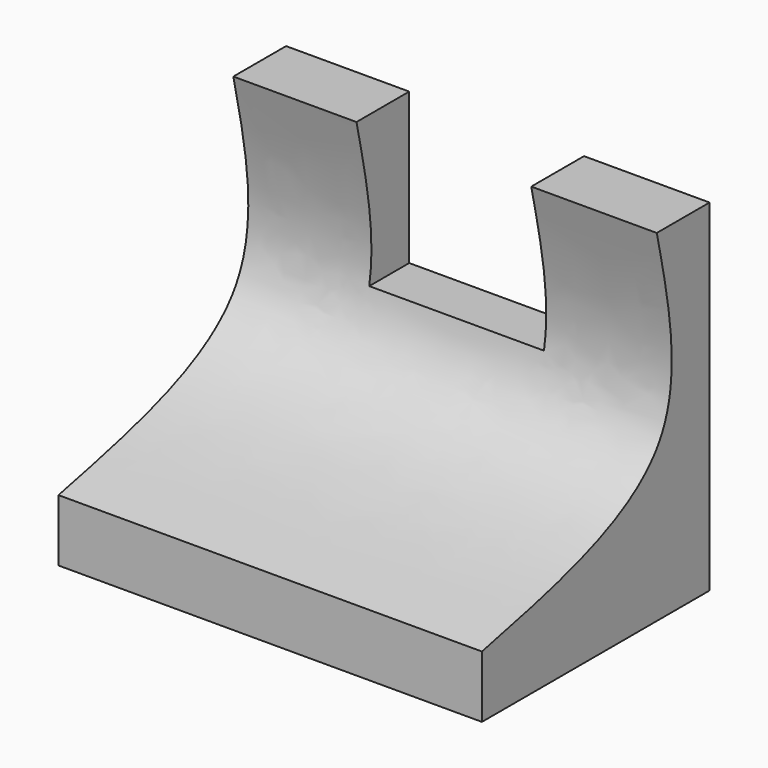
from build123d import *

# Parameters (mm, degrees)
F0_W     = 75.6122842431
F0_H     = 61.000533402
F1_DEPTH = 50.8
F3_DEPTH = 76.2
F4_W     = 31.2095750123
F4_H     = 26.9537232816
F5_DEPTH = 25.4


with BuildPart() as f1:
    # F0 (on Front) → F1 (new body)
    with BuildSketch(Plane.XZ):
        with Locations((37.8061421216, 30.500266701)):
            Rectangle(F0_W, F0_H)
    extrude(amount=F1_DEPTH)

    # F2 (on face) → F3 (cut)
    with BuildSketch(Plane(origin=(0, 0, 0), x_dir=(0, -1, 0), z_dir=(-1, 0, 0))):
        with BuildLine():
            Line((50.8, 61.000533402), (11.7745203897, 61.000533402))
            add(Edge.make_bspline(
                [(11.7745203897, 61.000533402), (8.9290710165, 48.3611461348), (2.8734064272, 21.462094399), (34.1955670512, 14.6672699688), (50.8, 11.0652130097)],
                knots=[0, 0, 0, 0, 0.4698822617, 1, 1, 1, 1], degree=3))
            Line((50.8, 11.0652130097), (50.8, 61.000533402))
        make_face()
    extrude(amount=-F3_DEPTH, mode=Mode.SUBTRACT)

    # F4 (on face) → F5 (cut)
    with BuildSketch(Plane(origin=(0, 0, 0), x_dir=(-1, 0, 0), z_dir=(0, 1, 0))):
        with Locations((-37.5933526084, 47.5236717612)):
            Rectangle(F4_W, F4_H)
    extrude(amount=-F5_DEPTH, mode=Mode.SUBTRACT)


solid = f1.part
